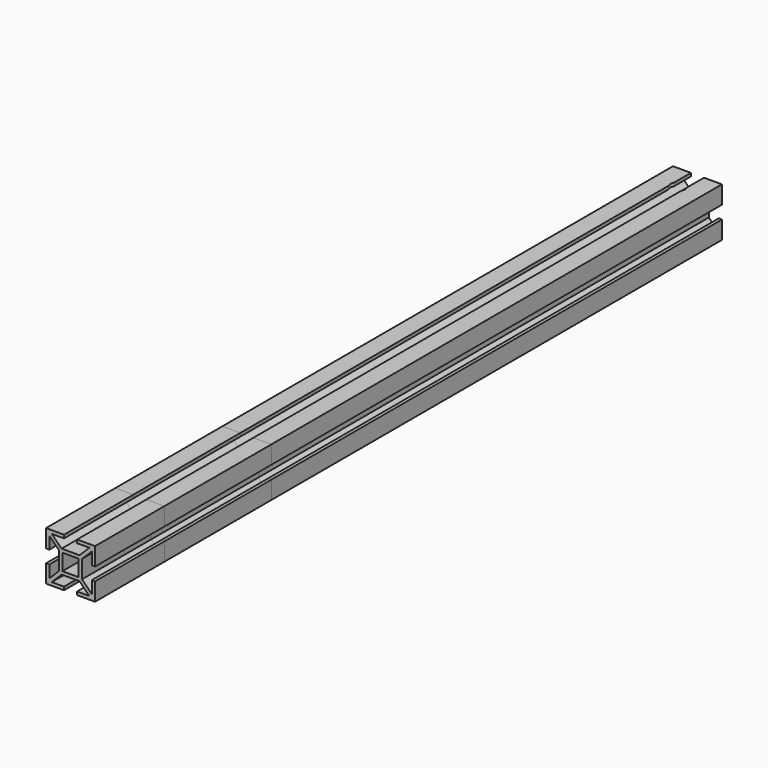
from build123d import *

# Parameters (mm, degrees)
F0_W          = 10
F0_H          = 10
F1_DEPTH      = 480
F2_DEPTH      = 427
F3_DEPTH      = 345
F4_R          = 3
F5_DEPTH      = 22.001
F6_R          = 4.5
F6_R_2        = 3
F7_DEPTH      = 25
F7_DEPTH_BACK = 3
F8_SIZE       = 1


with BuildPart() as f1:
    # F0 (on Front) → F1 (new body)
    with BuildSketch(Plane.XZ):
        Polygon((-4, 15), (-15, 15), (-15, 4), (-13, 4), (-13, 11.5), (-7, 5.5), (-7, -5.5), (-13, -11.5), (-13, -4), (-15, -4), (-15, -15), (-4, -15), (-4, -13), (-11.5, -13), (-5.5, -7), (5.5, -7), (11.5, -13), (4, -13), (4, -15), (15, -15), (15, -4), (13, -4), (13, -11.5), (7, -5.5), (7, 5.5), (13, 11.5), (13, 4), (15, 4), (15, 15), (4, 15), (4, 13), (11.5, 13), (5.5, 7), (-5.5, 7), (-11.5, 13), (-4, 13), align=None)
        Rectangle(F0_W, F0_H, mode=Mode.SUBTRACT)
    extrude(amount=F1_DEPTH)


with BuildPart() as f2:
    # F0 (on Front) → F2 (new body)
    with BuildSketch(Plane.XZ):
        Polygon((-4, 15), (-15, 15), (-15, 4), (-13, 4), (-13, 11.5), (-7, 5.5), (-7, -5.5), (-13, -11.5), (-13, -4), (-15, -4), (-15, -15), (-4, -15), (-4, -13), (-11.5, -13), (-5.5, -7), (5.5, -7), (11.5, -13), (4, -13), (4, -15), (15, -15), (15, -4), (13, -4), (13, -11.5), (7, -5.5), (7, 5.5), (13, 11.5), (13, 4), (15, 4), (15, 15), (4, 15), (4, 13), (11.5, 13), (5.5, 7), (-5.5, 7), (-11.5, 13), (-4, 13), align=None)
        Rectangle(F0_W, F0_H, mode=Mode.SUBTRACT)
    extrude(amount=F2_DEPTH)


with BuildPart() as f3:
    # F0 (on Front) → F3 (new body)
    with BuildSketch(Plane.XZ):
        Polygon((-4, 15), (-15, 15), (-15, 4), (-13, 4), (-13, 11.5), (-7, 5.5), (-7, -5.5), (-13, -11.5), (-13, -4), (-15, -4), (-15, -15), (-4, -15), (-4, -13), (-11.5, -13), (-5.5, -7), (5.5, -7), (11.5, -13), (4, -13), (4, -15), (15, -15), (15, -4), (13, -4), (13, -11.5), (7, -5.5), (7, 5.5), (13, 11.5), (13, 4), (15, 4), (15, 15), (4, 15), (4, 13), (11.5, 13), (5.5, 7), (-5.5, 7), (-11.5, 13), (-4, 13), align=None)
        Rectangle(F0_W, F0_H, mode=Mode.SUBTRACT)
    extrude(amount=F3_DEPTH)


with BuildPart() as f5_tool:
    # F4 (on face) → F5 (new body, through all)
    with BuildSketch(Plane.XY.offset(7)):
        with Locations((0, -15)):
            Circle(F4_R)
    extrude(amount=-F5_DEPTH)


with BuildPart() as f1_1:
    add(f1.part)

    # F5: cut by f5_tool
    add(f5_tool.part, mode=Mode.SUBTRACT)


with BuildPart() as f2_1:
    add(f2.part)

    # F5: cut by f5_tool
    add(f5_tool.part, mode=Mode.SUBTRACT)


with BuildPart() as f3_1:
    add(f3.part)

    # F5: cut by f5_tool
    add(f5_tool.part, mode=Mode.SUBTRACT)


with BuildPart() as f7_tool:
    # F6 (on face) → F7 (new body, two sides)
    with BuildSketch(Plane.XY.offset(7)) as f7_sk:
        with Locations((0, -15)):
            Circle(F6_R)
        with Locations((0, -15)):
            Circle(F6_R_2, mode=Mode.SUBTRACT)
    extrude(amount=F7_DEPTH)
    extrude(f7_sk.sketch, amount=-F7_DEPTH_BACK)


with BuildPart() as f1_2:
    add(f1_1.part)

    # F7: cut by f7_tool
    add(f7_tool.part, mode=Mode.SUBTRACT)

    # F8
    f8_edges = [f1_2.edges().sort_by_distance(p)[0] for p in [
        (-3, -15, -5),
    ]]
    chamfer(f8_edges, length=F8_SIZE)


with BuildPart() as f2_2:
    add(f2_1.part)

    # F7: cut by f7_tool
    add(f7_tool.part, mode=Mode.SUBTRACT)


with BuildPart() as f3_2:
    add(f3_1.part)

    # F7: cut by f7_tool
    add(f7_tool.part, mode=Mode.SUBTRACT)


solid = Compound([f1_2.part, f2_2.part, f3_2.part])
